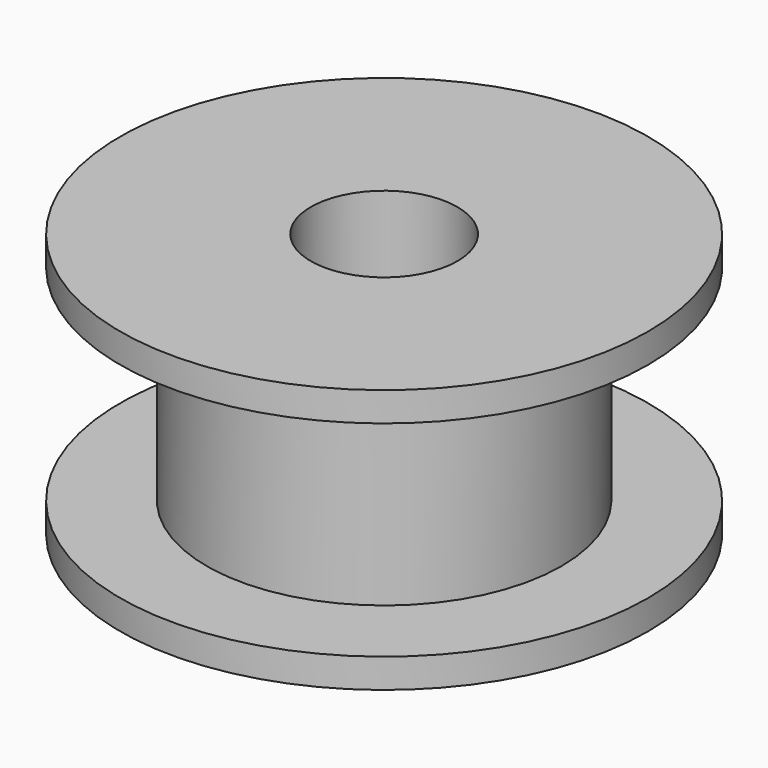
from build123d import *

# Parameters (mm, degrees)
SKETCH_R     = 9
PAD_DEPTH    = 9
SKETCH001_W  = 2.95
SKETCH001_H  = 7
SKETCH002_R  = 2.5
POCKET_DEPTH = 9.001


with BuildPart() as part:
    # Sketch → Pad (new body)
    with BuildSketch(Plane.XY):
        Circle(SKETCH_R)
    extrude(amount=PAD_DEPTH)

    # Sketch001 → Groove (revolve, cut)
    with BuildSketch(Plane.XZ):
        with Locations((7.525, 4.5)):
            Rectangle(SKETCH001_W, SKETCH001_H)
    revolve(axis=Axis((0, 0, 0), (0, 0, 1)), mode=Mode.SUBTRACT)

    # Sketch002 (on Face7 of Groove) → Pocket (cut, through all)
    with BuildSketch(Plane.XY.offset(9)):
        Circle(SKETCH002_R)
    extrude(amount=-POCKET_DEPTH, mode=Mode.SUBTRACT)


solid = part.part
